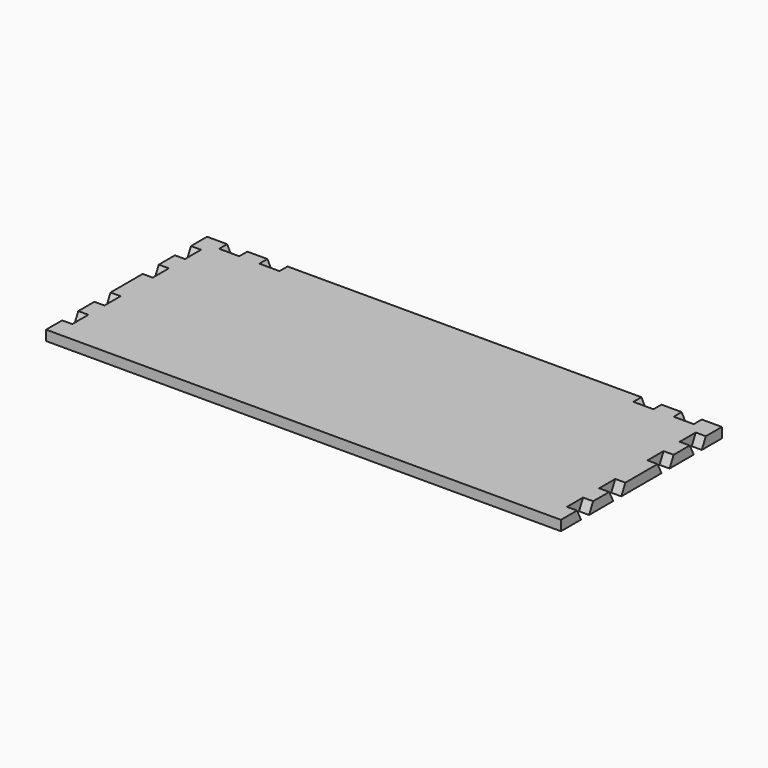
from build123d import *

# Parameters (mm, degrees)
F1_DEPTH  = 12
F3_DEPTH  = 12
F5_DEPTH  = 12
F7_DEPTH  = 12
F9_DEPTH  = 12
F11_DEPTH = 12
F13_DEPTH = 12
F15_DEPTH = 12
F17_DEPTH = 12
F19_DEPTH = 12
F21_DEPTH = 12
F23_DEPTH = 12
F25_DEPTH = 12


with BuildPart() as f1:
    # F0 (on Top) → F1 (new body)
    with BuildSketch(Plane.XY):
        Polygon((-283, 120), (-307, 120), (-307, 96), (-295, 96), (-295, 72), (-307, 72), (-307, 48), (-295, 48), (-295, 24), (-307, 24), (-307, -24), (-295, -24), (-295, -48), (-307, -48), (-307, -72), (-295, -72), (-295, -96), (-307, -96), (-307, -120), (307, -120), (307, -96), (295, -96), (295, -72), (307, -72), (307, -48), (295, -48), (295, -24), (307, -24), (307, 24), (295, 24), (295, 48), (307, 48), (307, 72), (295, 72), (295, 96), (307, 96), (307, 120), (283, 120), (283, 108), (259, 108), (259, 120), (235, 120), (235, 108), (211, 108), (211, 120), (-211, 120), (-211, 108), (-235, 108), (-235, 120), (-259, 120), (-259, 108), (-283, 108), align=None)
    extrude(amount=F1_DEPTH)

    # F2 (on face) → F3 (join)
    with BuildSketch(Plane(origin=(-295, 0, 0), x_dir=(0, -1, 0), z_dir=(-1, 0, 0))):
        Polygon((78, 0), (72, 12), (72, 0), align=None)
        Polygon((96, 0), (96, 12), (90, 0), align=None)
    extrude(amount=F3_DEPTH)

    # F4 (on face) → F5 (join)
    with BuildSketch(Plane(origin=(-295, 0, 0), x_dir=(0, -1, 0), z_dir=(-1, 0, 0))):
        Polygon((30, 0), (24, 12), (24, 0), align=None)
        Polygon((48, 0), (48, 12), (42, 0), align=None)
    extrude(amount=F5_DEPTH)

    # F6 (on face) → F7 (join)
    with BuildSketch(Plane(origin=(-295, 0, 0), x_dir=(0, -1, 0), z_dir=(-1, 0, 0))):
        Polygon((-42, 0), (-48, 12), (-48, 0), align=None)
        Polygon((-24, 0), (-24, 12), (-30, 0), align=None)
    extrude(amount=F7_DEPTH)

    # F8 (on face) → F9 (join)
    with BuildSketch(Plane(origin=(-295, 0, 0), x_dir=(0, -1, 0), z_dir=(-1, 0, 0))):
        Polygon((-90, 0), (-96, 12), (-96, 0), align=None)
        Polygon((-72, 0), (-72, 12), (-78, 0), align=None)
    extrude(amount=F9_DEPTH)

    # F10 (on face) → F11 (join)
    with BuildSketch(Plane.YZ.offset(295)):
        Polygon((-90, 0), (-96, 12), (-96, 0), align=None)
        Polygon((-72, 0), (-72, 12), (-78, 0), align=None)
    extrude(amount=F11_DEPTH)

    # F12 (on face) → F13 (join)
    with BuildSketch(Plane.YZ.offset(295)):
        Polygon((-42, 0), (-48, 12), (-48, 0), align=None)
        Polygon((-24, 0), (-24, 12), (-30, 0), align=None)
    extrude(amount=F13_DEPTH)

    # F14 (on face) → F15 (join)
    with BuildSketch(Plane.YZ.offset(295)):
        Polygon((30, 0), (24, 12), (24, 0), align=None)
        Polygon((48, 0), (48, 12), (42, 0), align=None)
    extrude(amount=F15_DEPTH)

    # F16 (on face) → F17 (join)
    with BuildSketch(Plane.YZ.offset(295)):
        Polygon((78, 0), (72, 12), (72, 0), align=None)
        Polygon((96, 0), (96, 12), (90, 0), align=None)
    extrude(amount=F17_DEPTH)

    # F18 (on face) → F19 (join)
    with BuildSketch(Plane(origin=(0, 108, 0), x_dir=(-1, 0, 0), z_dir=(0, 1, 0))):
        Polygon((-277, 0), (-283, 12), (-283, 0), align=None)
        Polygon((-259, 0), (-259, 12), (-265, 0), align=None)
    extrude(amount=F19_DEPTH)

    # F20 (on face) → F21 (join)
    with BuildSketch(Plane(origin=(0, 108, 0), x_dir=(-1, 0, 0), z_dir=(0, 1, 0))):
        Polygon((-229, 0), (-235, 12), (-235, 0), align=None)
        Polygon((-211, 0), (-211, 12), (-217, 0), align=None)
    extrude(amount=F21_DEPTH)

    # F22 (on face) → F23 (join)
    with BuildSketch(Plane(origin=(0, 108, 0), x_dir=(-1, 0, 0), z_dir=(0, 1, 0))):
        Polygon((217, 0), (211, 12), (211, 0), align=None)
        Polygon((235, 0), (235, 12), (229, 0), align=None)
    extrude(amount=F23_DEPTH)

    # F24 (on face) → F25 (join)
    with BuildSketch(Plane(origin=(0, 108, 0), x_dir=(-1, 0, 0), z_dir=(0, 1, 0))):
        Polygon((265, 0), (259, 12), (259, 0), align=None)
        Polygon((283, 0), (283, 12), (277, 0), align=None)
    extrude(amount=F25_DEPTH)


solid = f1.part
